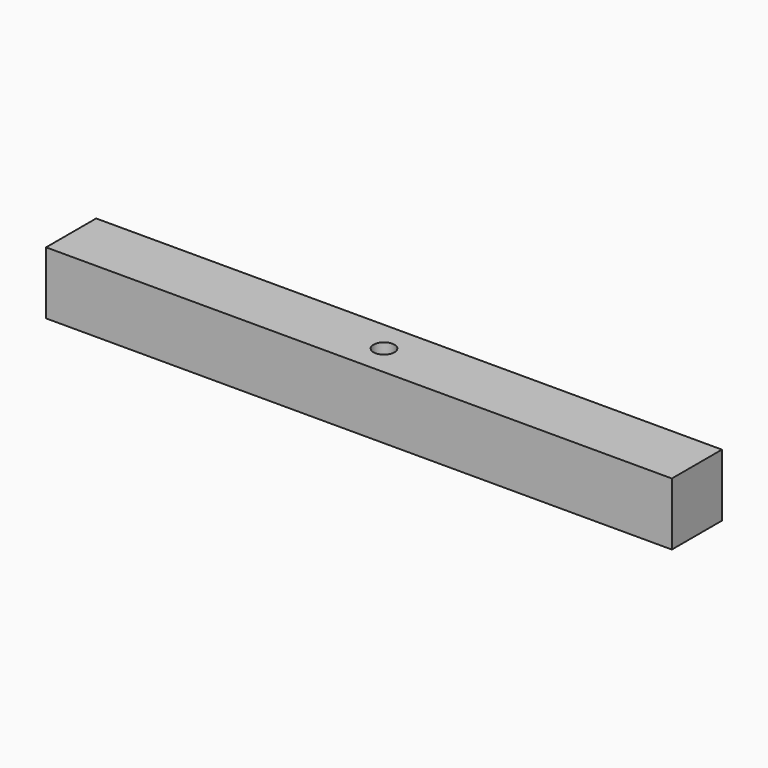
from build123d import *

# Parameters (mm, degrees)
SKETCH_W     = 30
SKETCH_H     = 30
PAD_DEPTH    = 300
SKETCH001_R  = 5
POCKET_DEPTH = 30.001


with BuildPart() as part:
    # Sketch → Pad (new body)
    with BuildSketch(Plane.YZ):
        with Locations((15, 15)):
            Rectangle(SKETCH_W, SKETCH_H)
    extrude(amount=PAD_DEPTH)

    # Sketch001 (on Face3 of Pad) → Pocket (cut, through all)
    with BuildSketch(Plane(origin=(0, 0, 30), x_dir=(0, -1, 0), z_dir=(0, 0, 1))):
        with Locations((-15, 150)):
            Circle(SKETCH001_R)
    extrude(amount=-POCKET_DEPTH, mode=Mode.SUBTRACT)


solid = part.part
